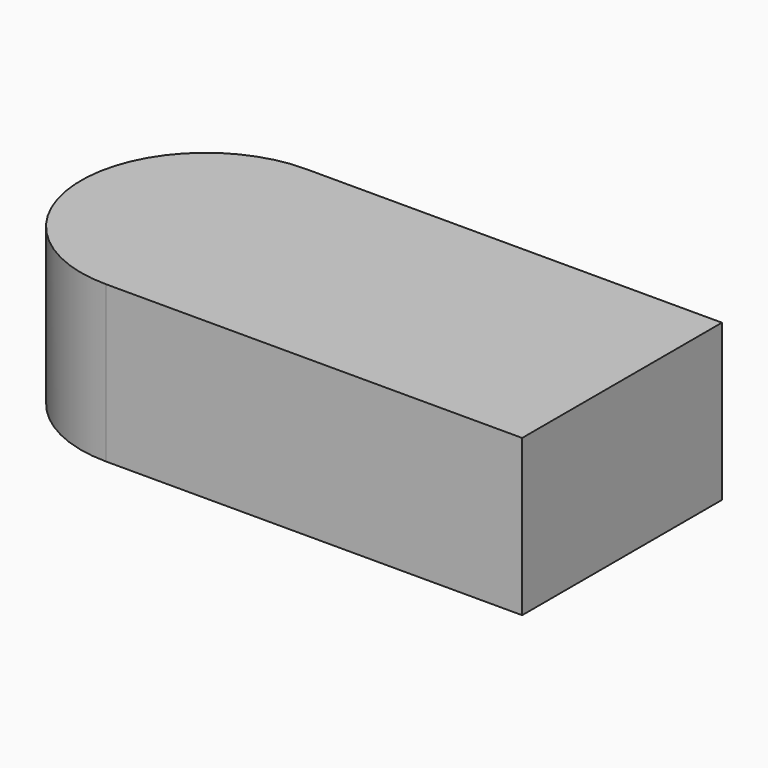
from build123d import *

# Parameters (mm, degrees)
PAD_DEPTH = 15


with BuildPart() as part:
    # Sketch → Pad (new body)
    with BuildSketch(Plane.XY):
        with BuildLine():
            ThreePointArc((0, 12), (-12, 0), (0, -12))
            Line((40, -12), (0, -12))
            Line((40, 12), (40, -12))
            Line((0, 12), (40, 12))
        make_face()
    extrude(amount=PAD_DEPTH)


solid = part.part
